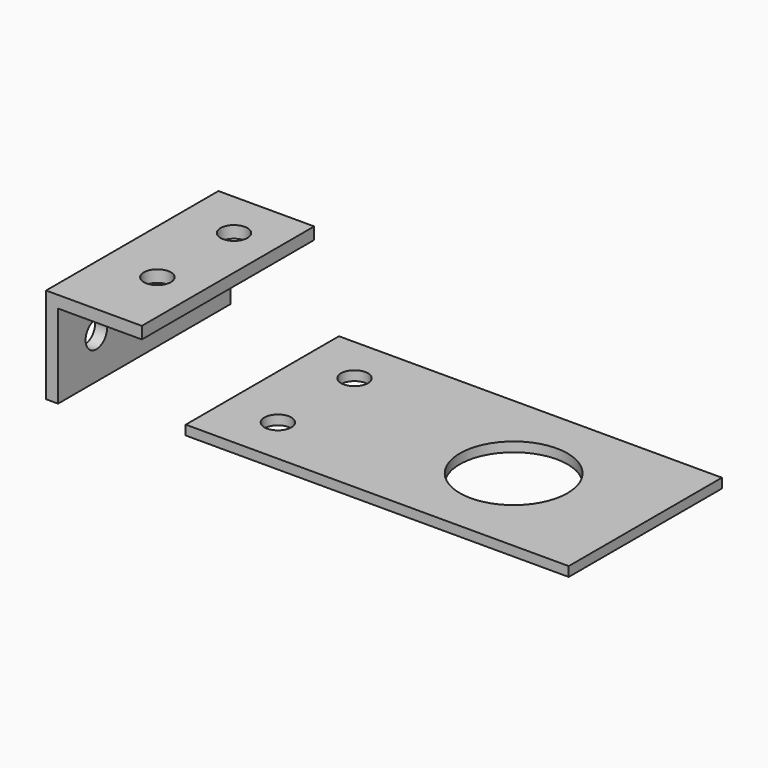
from build123d import *

# Parameters (mm, degrees)
F0_W     = 101.6
F0_H     = 50.8
F0_R     = 14.2875
F1_DEPTH = 2.54
F2_W     = 3.175
F2_H     = 3.175
F2_W_2   = 22.225
F2_H_2   = 22.225
F3_DEPTH = 57.15
F4_R     = 3.571875
F5_DEPTH = 25.4
F6_R     = 3.571875
F7_DEPTH = 25.4
F8_R     = 3.571875
F9_DEPTH = 5.08


with BuildPart() as f1:
    # F0 (on Top) → F1 (new body)
    with BuildSketch(Plane.XY):
        with Locations((51.398457, -32.49885)):
            Rectangle(F0_W, F0_H)
        with Locations((67.273457, -32.49885)):
            Circle(F0_R, mode=Mode.SUBTRACT)
    extrude(amount=F1_DEPTH)

    # F6 (on face) → F7 (cut)
    with BuildSketch(Plane.XY.offset(2.54)):
        with Locations((14.885957, -19.79885)):
            Circle(F6_R)
        with Locations((14.885957, -45.19885)):
            Circle(F6_R)
    extrude(amount=-F7_DEPTH, mode=Mode.SUBTRACT)


with BuildPart() as f3:
    # F2 (on Front) → F3 (new body)
    with BuildSketch(Plane.XZ):
        with Locations((-35.464063, 19.729778)):
            Rectangle(F2_W, F2_H)
        with Locations((-22.764063, 19.729778)):
            Rectangle(F2_W_2, F2_H)
        with Locations((-35.464063, 7.029778)):
            Rectangle(F2_W, F2_H_2)
    extrude(amount=F3_DEPTH)

    # F4 (on face) → F5 (cut)
    with BuildSketch(Plane.XY.offset(21.317278)):
        with Locations((-22.764063, -12.7)):
            Circle(F4_R)
        with Locations((-22.764063, -38.1)):
            Circle(F4_R)
    extrude(amount=-F5_DEPTH, mode=Mode.SUBTRACT)

    # F8 (on face) → F9 (cut)
    with BuildSketch(Plane(origin=(-37.051563, 0, 0), x_dir=(0, -1, 0), z_dir=(-1, 0, 0))):
        with Locations((12.5984, 11.068378)):
            Circle(F8_R)
        with Locations((44.45, 7.029778)):
            Circle(F8_R)
    extrude(amount=-F9_DEPTH, mode=Mode.SUBTRACT)


solid = Compound([f1.part, f3.part])
